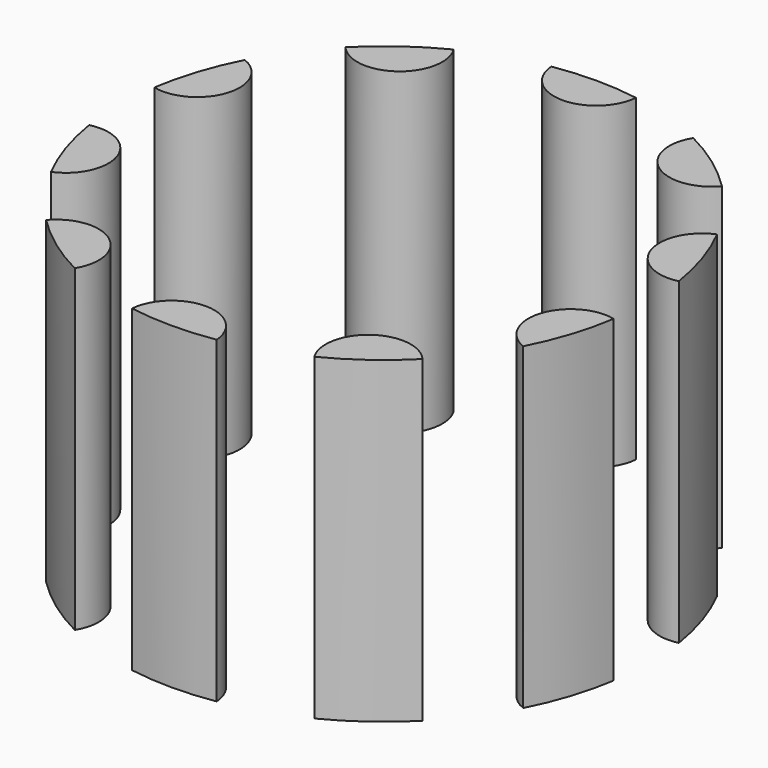
from build123d import *

# Parameters (mm, degrees)
F0_R     = 31.75
F1_DEPTH = 38.1
F2_R     = 5.08
F3_DEPTH = 50.8


with BuildPart() as f1:
    # F0 (on Top) → F1 (new body)
    with BuildSketch(Plane.XY):
        Circle(F0_R)
    extrude(amount=F1_DEPTH)

    # F2 (on Top) → F3 (intersect)
    with BuildSketch(Plane.XY):
        with Locations((0, 31.75)):
            Circle(F2_R)
        with Locations((-18.662182, 25.68629)):
            Circle(F2_R)
        with Locations((-30.196044, 9.81129)):
            Circle(F2_R)
        with Locations((-30.196044, -9.81129)):
            Circle(F2_R)
        with Locations((-18.662182, -25.68629)):
            Circle(F2_R)
        with Locations((0, -31.75)):
            Circle(F2_R)
        with Locations((18.662182, -25.68629)):
            Circle(F2_R)
        with Locations((30.196044, -9.81129)):
            Circle(F2_R)
        with Locations((30.196044, 9.81129)):
            Circle(F2_R)
        with Locations((18.662182, 25.68629)):
            Circle(F2_R)
    extrude(amount=F3_DEPTH, mode=Mode.INTERSECT)


solid = f1.part
